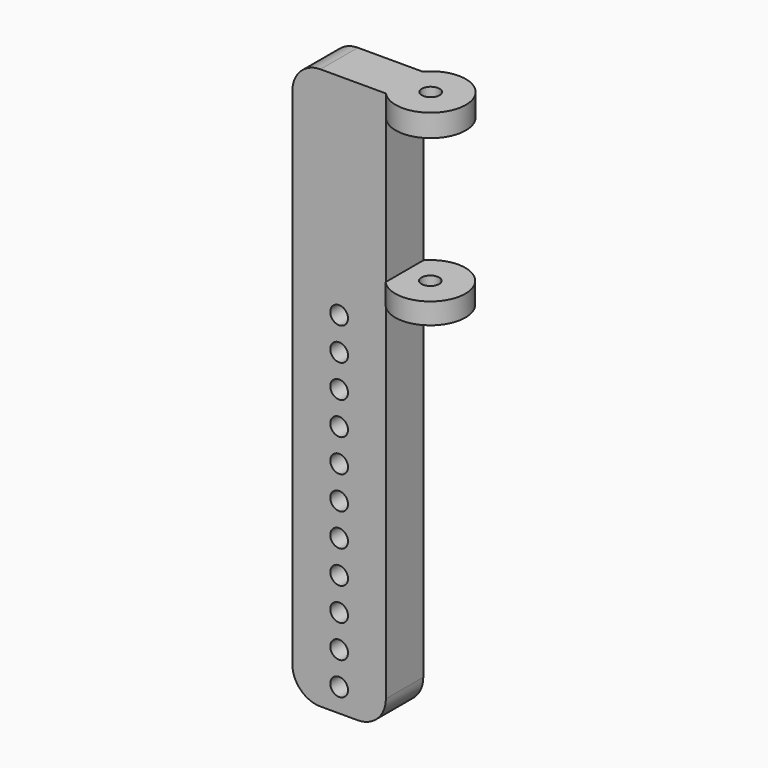
from build123d import *

# Parameters (mm, degrees)
F1_DEPTH  = 10
F2_R      = 7.5
F3_DEPTH  = 4.8
F4_R      = 1.9
F5_DEPTH  = 25
F6_R      = 1.9
F7_DEPTH  = 7
F9_R      = 7.5
F10_DEPTH = 4.5
F11_R     = 1.9
F12_DEPTH = 25
F13_R     = 1.9
F14_DEPTH = 25


with BuildPart() as f1:
    # F0 (on Front) → F1 (new body)
    with BuildSketch(Plane.XZ):
        with BuildLine():
            Line((-37.2161355778, 126.6291381083), (-51.2161355778, 126.6291381083))
            ThreePointArc((-51.2161355778, 126.6291381083), (-55.4587762649, 124.8717787955), (-57.2161355778, 120.6291381083))
            Line((-57.2161355778, 120.6291381083), (-57.2161355778, 12.6291381083))
            ThreePointArc((-57.2161355778, 12.6291381083), (-55.4587762649, 8.3864974212), (-51.2161355778, 6.6291381083))
            Line((-51.2161355778, 6.6291381083), (-43.2161355778, 6.6291381083))
            ThreePointArc((-43.2161355778, 6.6291381083), (-38.9734948907, 8.3864974212), (-37.2161355778, 12.6291381083))
            Line((-37.2161355778, 12.6291381083), (-37.2161355778, 126.6291381083))
        make_face()
    extrude(amount=F1_DEPTH)

    # F2 (on face) → F3 (join)
    with BuildSketch(Plane.XY.offset(126.6291381083)):
        with Locations((-31.6986439976, -4.9055621816)):
            Circle(F2_R)
    extrude(amount=-F3_DEPTH)

    # F4 (on face) → F5 (cut)
    with BuildSketch(Plane.XY.offset(126.6291381083)):
        with Locations((-31.6986439976, -4.9055621816)):
            Circle(F4_R)
    extrude(amount=-F5_DEPTH, mode=Mode.SUBTRACT)

    # F6 (on face) → F7 (cut)
    with BuildSketch(Plane(origin=(-57.2161355778, 0, 0), x_dir=(0, -1, 0), z_dir=(-1, 0, 0))):
        with Locations((5, 38.5266803205)):
            Circle(F6_R)
        with Locations((5, 12.2715812176)):
            Circle(F6_R)
    extrude(amount=-F7_DEPTH, mode=Mode.SUBTRACT)

    # F9 (on offset) → F10 (join)
    with BuildSketch(Plane.XY.offset(86.6291381083)):
        with Locations((-31.6911898553, -5.0173136406)):
            Circle(F9_R)
    extrude(amount=F10_DEPTH)

    # F11 (on face) → F12 (cut)
    with BuildSketch(Plane.XY.offset(91.1291381083)):
        with Locations((-31.6911898553, -5.0173136406)):
            Circle(F11_R)
    extrude(amount=-F12_DEPTH, mode=Mode.SUBTRACT)

    # F13 (on face) → F14 (cut)
    with BuildSketch(Plane(origin=(0, 0, 0), x_dir=(-1, 0, 0), z_dir=(0, 1, 0))):
        with Locations((47.2161355778, 81.6291381083)):
            Circle(F13_R)
        with Locations((47.2161355778, 74.6291381083)):
            Circle(F13_R)
        with Locations((47.2161355778, 53.6291381083)):
            Circle(F13_R)
        with Locations((47.2161355778, 67.6291381083)):
            Circle(F13_R)
        with Locations((47.2161355778, 60.6291381083)):
            Circle(F13_R)
        with Locations((47.2161355778, 18.6291381083)):
            Circle(F13_R)
        with Locations((47.2161355778, 25.6291381083)):
            Circle(F13_R)
        with Locations((47.2161355778, 32.6291381083)):
            Circle(F13_R)
        with Locations((47.2161355778, 39.6291381083)):
            Circle(F13_R)
        with Locations((47.2161355778, 46.6291381083)):
            Circle(F13_R)
        with Locations((47.2161355778, 11.6291381083)):
            Circle(F13_R)
    extrude(amount=-F14_DEPTH, mode=Mode.SUBTRACT)


solid = f1.part
